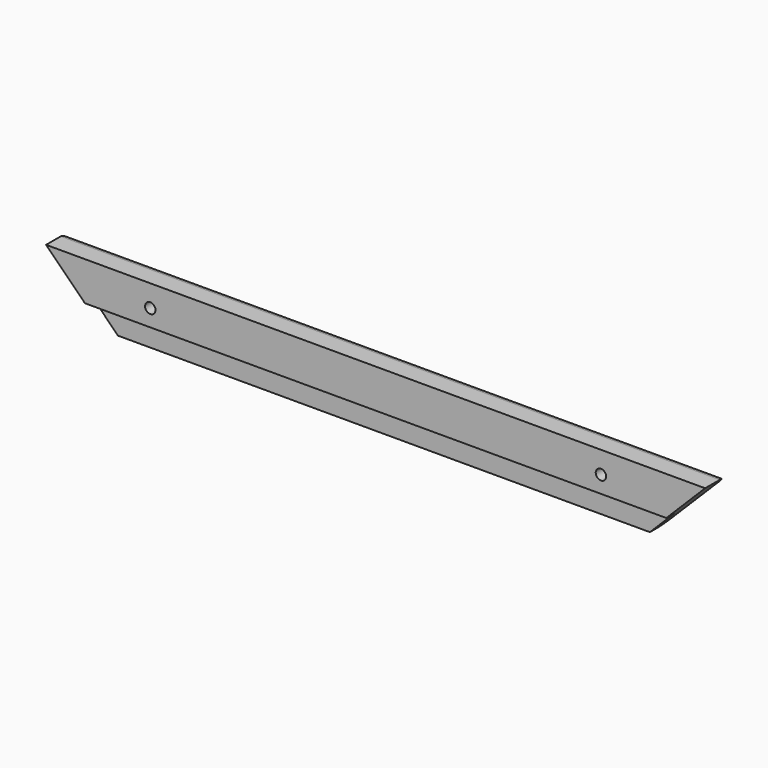
from build123d import *

# Parameters (mm, degrees)
F1_DEPTH       = 10
F3_DEPTH       = 4
F5_D           = 4
F5_CSINK_D     = 7
F5_CSINK_ANGLE = 90
F6_R           = 3


with BuildPart() as f1:
    # F0 (on Front) → F1 (new body)
    with BuildSketch(Plane.XZ):
        Polygon((228.6, 24.4), (-24.4, 24.4), (0, 0), (204.2, 0), align=None)
    extrude(amount=F1_DEPTH)

    # F2 (on face) → F3 (cut)
    with BuildSketch(Plane.XZ.offset(10)):
        Polygon((-24.4, 9.5), (-24.4, 0), (0, 0), (-9.5, 9.5), align=None)
        Polygon((-9.5, 9.5), (0, 0), (204.2, 0), (213.7, 9.5), align=None)
        Polygon((213.7, 9.5), (204.2, 0), (228.6, 0), (228.6, 9.5), align=None)
    extrude(amount=-F3_DEPTH, mode=Mode.SUBTRACT)

    # F5 (through all)
    with Locations(Plane(origin=(0, 0, 0), x_dir=(-1, 0, 0), z_dir=(0, 1, 0))):
        with Locations((-188.6, 16), (-15.6, 16)):
            CounterSinkHole(F5_D / 2, F5_CSINK_D / 2, counter_sink_angle=F5_CSINK_ANGLE)

    # F6
    f6_edges = [f1.edges().sort_by_distance(p)[0] for p in [
        (102.1, 0, 0),
        (102.1, 0, 24.4),
    ]]
    fillet(f6_edges, radius=F6_R)


solid = f1.part
